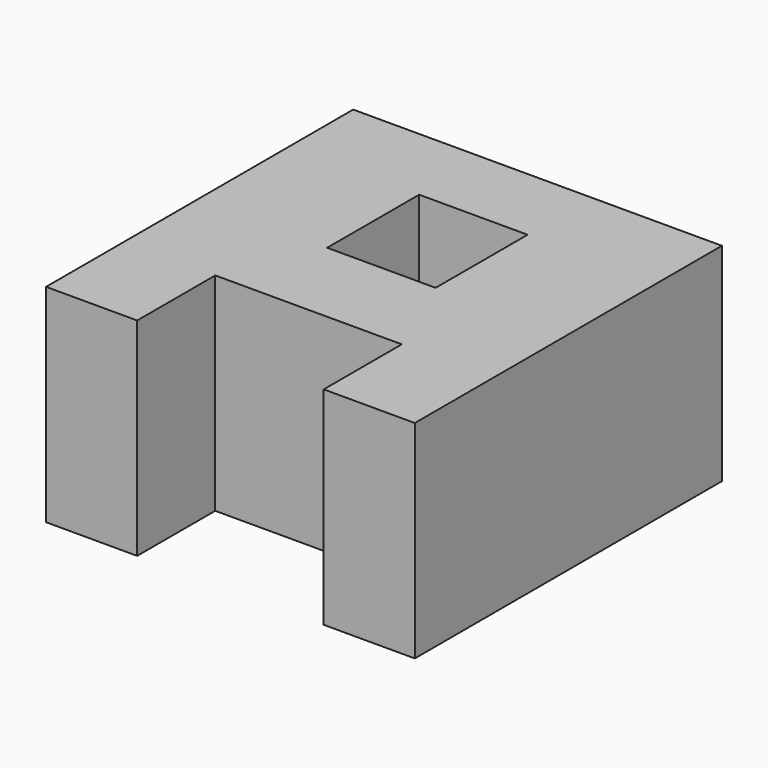
from build123d import *

# Parameters (mm, degrees)
F1_DEPTH = 25.4


with BuildPart() as f1:
    # F0 (on Top) → F1 (new body)
    with BuildSketch(Plane.XY):
        Polygon((0, 47.0463), (-22.594188, 47.0463), (-22.594188, 0), (-11.43, 0), (-11.43, 11.958858), (0, 11.958858), (11.43, 11.958858), (11.43, 0), (22.594188, 0), (22.594188, 47.0463), align=None)
        Polygon((6.645349, 23.123043), (0, 23.123043), (-6.645349, 23.123043), (-6.645349, 37.211183), (0, 37.211183), (6.645349, 37.211183), align=None, mode=Mode.SUBTRACT)
    extrude(amount=F1_DEPTH)


solid = f1.part
